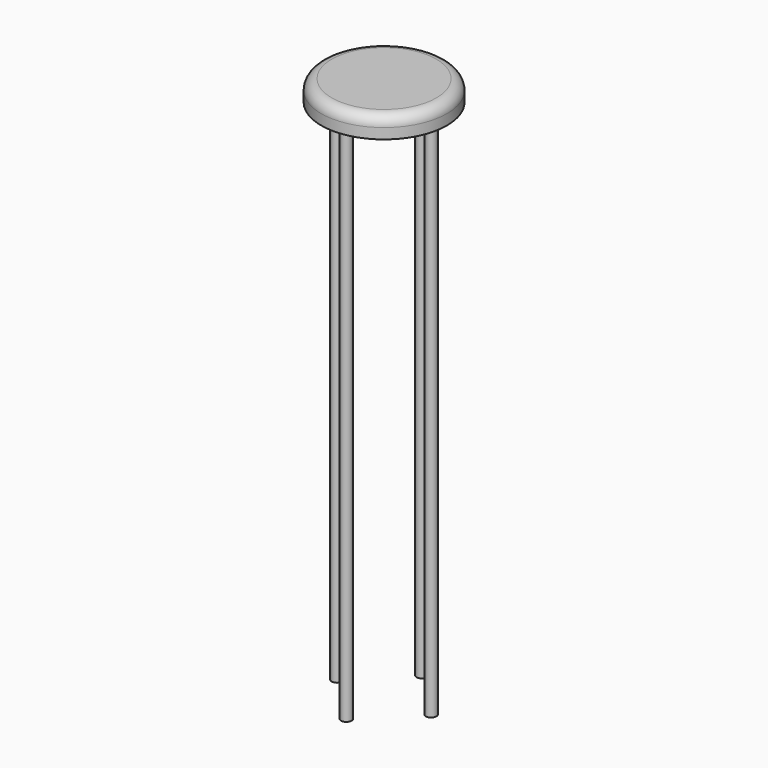
from build123d import *

# Parameters (mm, degrees)
F0_R     = 152.4
F1_DEPTH = 50.8
F2_R     = 25.4
F3_R     = 12.7
F4_DEPTH = 1270
F5_COUNT = 4


with BuildPart() as f1:
    # F0 (on Top) → F1 (new body)
    with BuildSketch(Plane.XY):
        Circle(F0_R)
    extrude(amount=F1_DEPTH)

    # F2
    f2_edges = [f1.edges().sort_by_distance(p)[0] for p in [
        (-152.4, 0, 50.8),
    ]]
    fillet(f2_edges, radius=F2_R)


with BuildPart() as f4:
    # F3 (on face) → F4 (new body)
    with BuildSketch(Plane(origin=(0, 0, 0), x_dir=(1, 0, 0), z_dir=(0, 0, -1))):
        with Locations((0, 114.3)):
            Circle(F3_R)
    extrude(amount=F4_DEPTH)


with BuildPart() as f5_1:
    # F5: instance of F4
    add(f4.part.rotate(Axis((0, 0, 0), (0, 0, 1)), 1 * 360 / F5_COUNT))


with BuildPart() as f5_2:
    # F5: instance of F4
    add(f4.part.rotate(Axis((0, 0, 0), (0, 0, 1)), 2 * 360 / F5_COUNT))


with BuildPart() as f5_3:
    # F5: instance of F4
    add(f4.part.rotate(Axis((0, 0, 0), (0, 0, 1)), 3 * 360 / F5_COUNT))


solid = Compound([f1.part, f4.part, f5_1.part, f5_2.part, f5_3.part])
